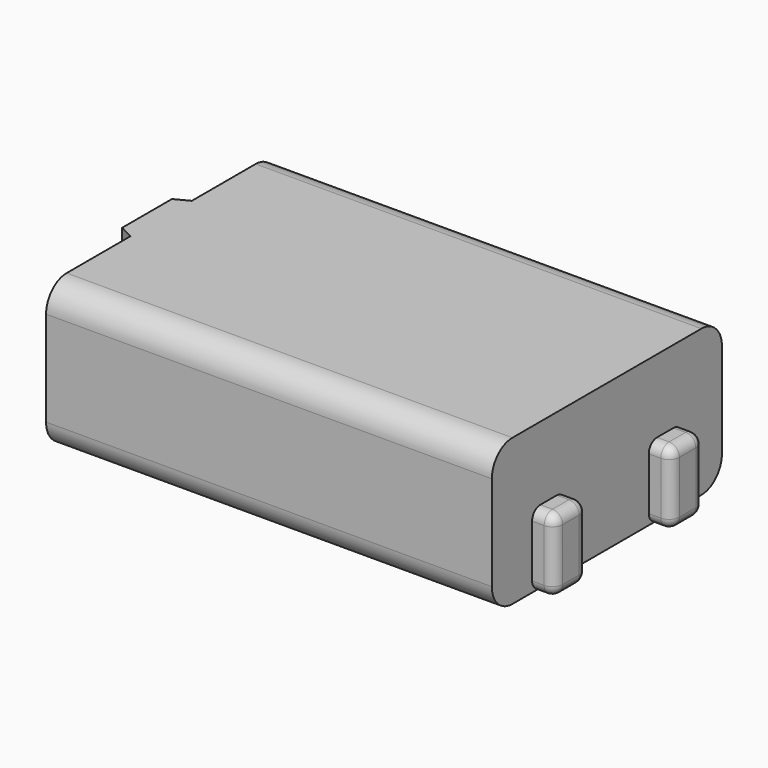
from build123d import *

# Parameters (mm, degrees)
F0_W     = 8.68
F0_H     = 5.6
F1_DEPTH = 2.85
F2_W     = 9.55
F2_H     = 0.8
F3_DEPTH = 1.425
F5_DEPTH = 2
F6_R     = 0.2
F7_R     = 0.5


with BuildPart() as f1:
    # F0 (on Top) → F1 (new body)
    with BuildSketch(Plane.XY):
        Rectangle(F0_W, F0_H)
    extrude(amount=F1_DEPTH)

    # F2 (on face) → F3 (join)
    with BuildSketch(Plane(origin=(0, 0, 0), x_dir=(1, 0, 0), z_dir=(0, 0, -1))):
        with Locations((0, 1.42)):
            Rectangle(F2_W, F2_H)
        with Locations((0, -1.42)):
            Rectangle(F2_W, F2_H)
    extrude(amount=-F3_DEPTH)

    # F4 (on face) → F5 (join)
    with BuildSketch(Plane.XY.offset(2.85)):
        Polygon((-4.34, -0.747284), (-4.34, 0), (-4.34, 0.747284), (-4.61323, 0.60448), (-4.61323, 0), (-4.61323, -0.60448), align=None)
    extrude(amount=-F5_DEPTH)

    # F6
    f6_edges = [f1.edges().sort_by_distance(p)[0] for p in [
        (-4.775, 1.82, 0.7125),
        (-4.775, 1.02, 0.7125),
        (-4.775, 1.42, 1.425),
        (-4.5575, 1.82, 1.425),
        (4.5575, 1.82, 1.425),
        (-4.5575, 1.02, 1.425),
        (4.5575, 1.02, 1.425),
        (-4.775, -1.02, 0.7125),
        (-4.775, -1.42, 1.425),
        (-4.775, -1.82, 0.7125),
        (-4.5575, -1.82, 1.425),
        (4.5575, -1.82, 1.425),
        (-4.5575, -1.02, 1.425),
        (4.5575, -1.02, 1.425),
        (-4.775, 1.42, 0),
        (4.5575, 1.02, 0),
        (-4.5575, 1.02, 0),
        (4.5575, 1.82, 0),
        (-4.5575, 1.82, 0),
        (4.5575, -1.02, 0),
        (-4.5575, -1.02, 0),
        (-4.775, -1.42, 0),
        (4.5575, -1.82, 0),
        (-4.5575, -1.82, 0),
        (4.775, -1.82, 0.7125),
        (4.775, -1.42, 1.425),
        (4.775, -1.02, 0.7125),
        (4.775, 1.02, 0.7125),
        (4.775, 1.42, 1.425),
        (4.775, 1.82, 0.7125),
        (4.775, -1.42, 0),
        (4.775, 1.42, 0),
    ]]
    fillet(f6_edges, radius=F6_R)

    # F7
    f7_edges = [f1.edges().sort_by_distance(p)[0] for p in [
        (0, -2.8, 2.85),
        (0, 2.8, 2.85),
        (0, 2.8, 0),
        (0, -2.8, 0),
    ]]
    fillet(f7_edges, radius=F7_R)


solid = f1.part
